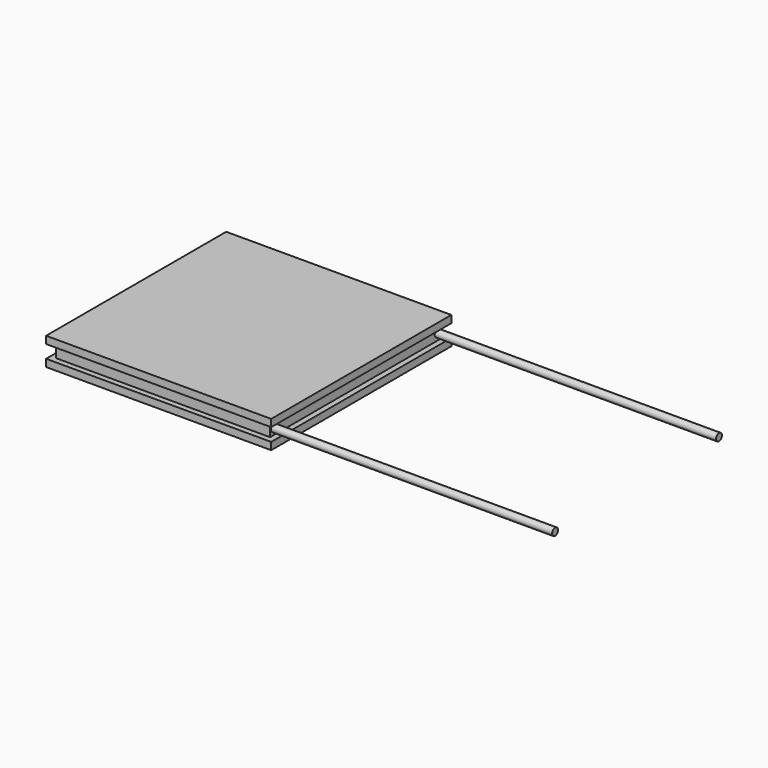
from build123d import *

# Parameters (mm, degrees)
F0_W     = 40
F0_H     = 40
F1_DEPTH = 1.3
F2_W     = 38
F2_H     = 38
F3_DEPTH = 2.3
F4_W     = 40
F4_H     = 40
F5_DEPTH = 1.3
F6_R     = 0.65
F7_DEPTH = 50


with BuildPart() as f1:
    # F0 (on Top) → F1 (new body)
    with BuildSketch(Plane.XY):
        Rectangle(F0_W, F0_H)
    extrude(amount=-F1_DEPTH)

    # F2 (on face) → F3 (join)
    with BuildSketch(Plane.XY):
        Rectangle(F2_W, F2_H)
    extrude(amount=F3_DEPTH)

    # F4 (on face) → F5 (join)
    with BuildSketch(Plane.XY.offset(2.3)):
        Rectangle(F4_W, F4_H)
    extrude(amount=F5_DEPTH)


with BuildPart() as f7:
    # F6 (on face) → F7 (new body)
    with BuildSketch(Plane.YZ.offset(19)):
        with Locations((-18.2, 1.15)):
            Circle(F6_R)
        with Locations((18.2, 1.15)):
            Circle(F6_R)
    extrude(amount=F7_DEPTH)


solid = Compound([f1.part, f7.part])
